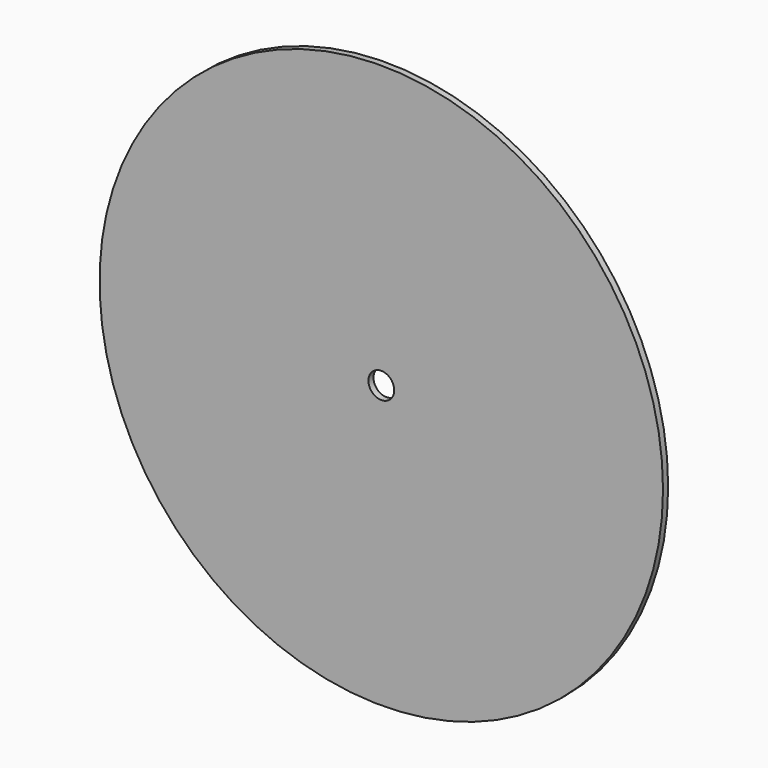
from build123d import *

# Parameters (mm, degrees)
F0_R     = 111.465764
F0_R_2   = 40.594044
F0_R_3   = 5.105291
F1_DEPTH = 1.27


with BuildPart() as f1:
    # F0 (on Front) → F1 (new body, symmetric)
    with BuildSketch(Plane.XZ):
        Circle(F0_R)
        Circle(F0_R_2, mode=Mode.SUBTRACT)
        Circle(F0_R_2)
        Circle(F0_R_3, mode=Mode.SUBTRACT)
    extrude(amount=F1_DEPTH, both=True)


solid = f1.part
